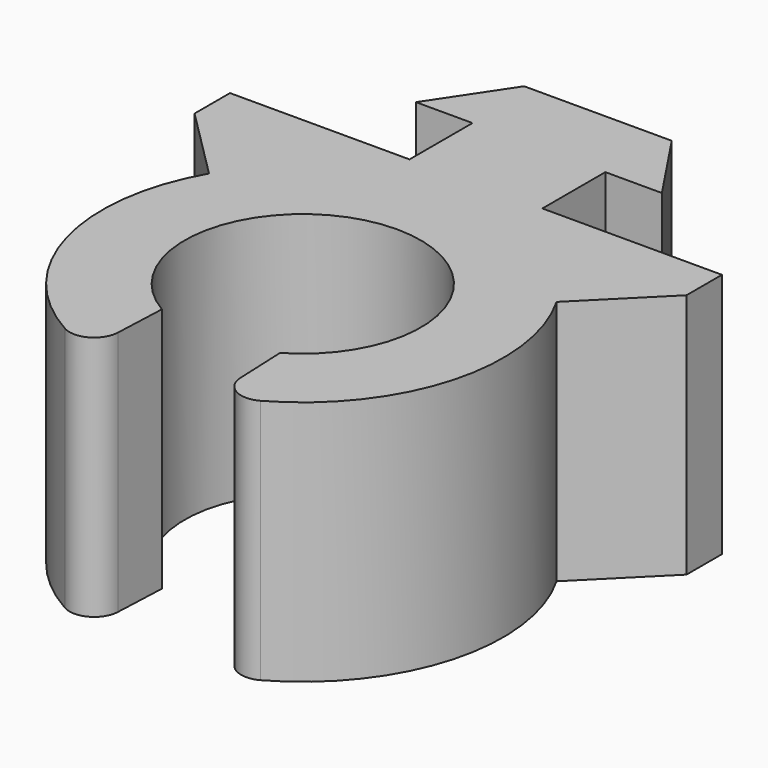
from build123d import *

# Parameters (mm, degrees)
PAD_DEPTH    = 10
POCKET_DEPTH = 10.001
FILLET_R     = 1


with BuildPart() as part:
    # Sketch → Pad (new body)
    with BuildSketch(Plane.XY):
        with BuildLine():
            ThreePointArc((-7.064283, 4.064283), (0, -8.15), (7.064283, 4.064283))
            Line((10, 7), (7.064283, 4.064283))
            Line((10, 8.8), (10, 7))
            Line((2.7, 8.8), (10, 8.8))
            Line((2.7, 12), (2.7, 8.8))
            Line((5, 12), (2.7, 12))
            Line((3, 15), (5, 12))
            Line((-3, 15), (3, 15))
            Line((-5, 12), (-3, 15))
            Line((-2.7, 12), (-5, 12))
            Line((-2.7, 8.8), (-2.7, 12))
            Line((-10, 8.8), (-2.7, 8.8))
            Line((-10, 7), (-10, 8.8))
            Line((-7.064283, 4.064283), (-10, 7))
        make_face()
    extrude(amount=PAD_DEPTH)

    # Sketch001 → Pocket (cut, through all)
    with BuildSketch(Plane.XY.offset(10)):
        with BuildLine():
            ThreePointArc((2.4, -4.156922), (0, 4.8), (-2.4, -4.156922))
            Line((-2.4, -4.156922), (-2.614108, -9.156922))
            Line((-2.614108, -9.156922), (2.614108, -9.156922))
            Line((2.614108, -9.156922), (2.4, -4.156922))
        make_face()
    extrude(amount=-POCKET_DEPTH, mode=Mode.SUBTRACT)

    # Fillet
    fillet_edges = [part.edges().sort_by_distance(p)[0] for p in [
        (-2.553419, -7.739674, 5),
        (2.553419, -7.739674, 5),
    ]]
    fillet(fillet_edges, radius=FILLET_R)


solid = part.part
